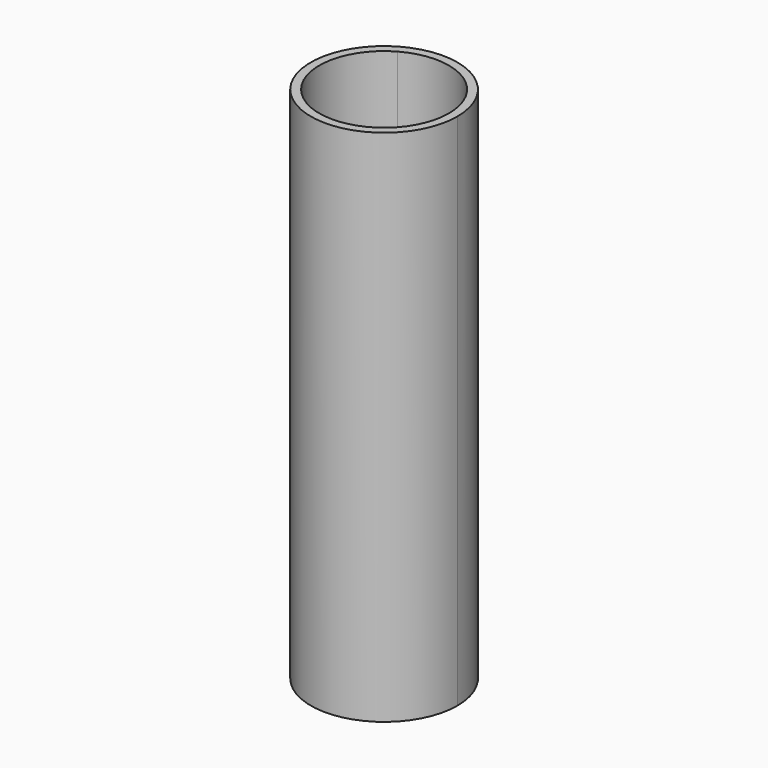
from build123d import *

# Parameters (mm, degrees)
F1_DEPTH = 19.05


with BuildPart() as f1:
    # F0 (on Top) → F1 (new body)
    with BuildSketch(Plane.XY):
        with BuildLine():
            ThreePointArc((2.691837, 0), (1.358152, 2.324093), (-1.32134, 2.345218))
            ThreePointArc((-1.32134, 2.345218), (-1.358152, -2.324093), (2.691837, 0))
        make_face()
        with BuildLine():
            ThreePointArc((-1.168882, 2.074624), (1.201447, 2.055937), (2.38125, 0))
            ThreePointArc((2.38125, 0), (-1.201447, -2.055937), (-1.168882, 2.074624))
        make_face(mode=Mode.SUBTRACT)
    extrude(amount=F1_DEPTH)


solid = f1.part
